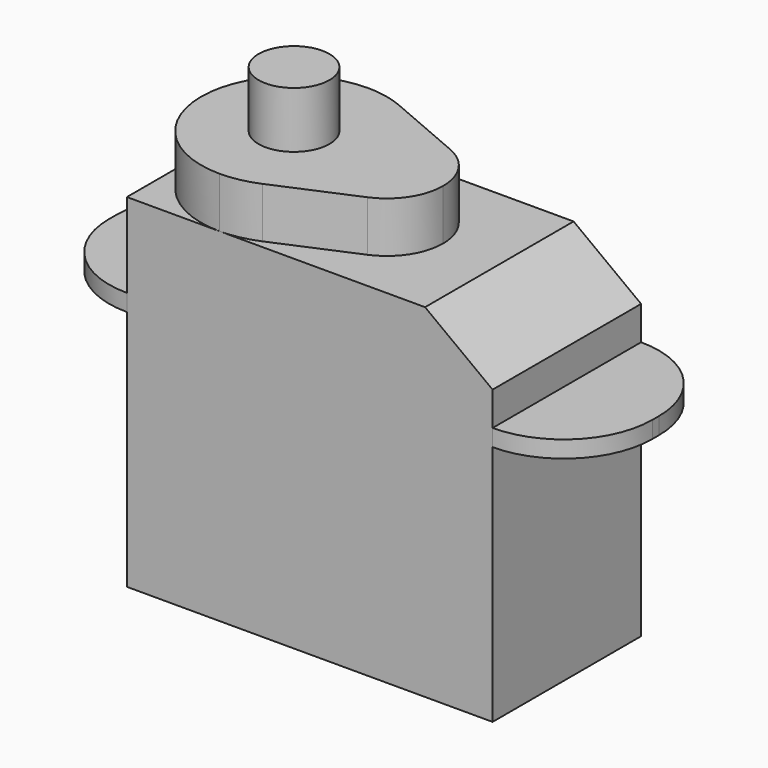
from build123d import *

# Parameters (mm, degrees)
F1_DEPTH = 8.25
F3_DEPTH = 0.75
F5_DEPTH = 2.25
F6_R     = 1.575
F7_DEPTH = 2.5


with BuildPart() as f1:
    # F0 (on Front) → F1 (new body)
    with BuildSketch(Plane.XZ):
        Polygon((0, 10.75), (0, 0), (16.25, 0), (16.25, 10.75), (20.2, 10.75), (20.2, 11.5), (16.25, 11.5), (16.25, 13), (13.25, 15.25), (10.75, 15.25), (10.75, 17.5), (0, 17.5), (0, 11.5), (-3.95, 11.5), (-3.95, 10.75), align=None)
    extrude(amount=F1_DEPTH)

    # F2 (on face) → F3 (cut, through all)
    with BuildSketch(Plane.XY.offset(11.5)):
        with BuildLine():
            ThreePointArc((0, -8.25), (-2.793072, -7.093072), (-3.95, -4.3))
            Line((-3.95, -4.3), (-3.95, -8.25))
            Line((-3.95, -8.25), (0, -8.25))
        make_face()
        with BuildLine():
            ThreePointArc((-3.95, -3.95), (-2.793072, -1.156928), (0, 0))
            Line((0, 0), (-3.95, 0))
            Line((-3.95, 0), (-3.95, -3.95))
        make_face()
        with BuildLine():
            Line((20.2, 0), (16.25, 0))
            ThreePointArc((16.25, 0), (19.043072, -1.156928), (20.2, -3.95))
            Line((20.2, -3.95), (20.2, 0))
        make_face()
        with BuildLine():
            Line((20.2, -8.25), (20.2, -4.3))
            ThreePointArc((20.2, -4.3), (19.043072, -7.093072), (16.25, -8.25))
            Line((16.25, -8.25), (20.2, -8.25))
        make_face()
    extrude(amount=-F3_DEPTH, mode=Mode.SUBTRACT)

    # F4 (on face) → F5 (cut, through all)
    with BuildSketch(Plane.XY.offset(17.5)):
        with BuildLine():
            ThreePointArc((4.125, -8.25), (1.208185, -7.041815), (0, -4.125))
            Line((0, -4.125), (0, -8.25))
            Line((0, -8.25), (4.125, -8.25))
        make_face()
        with BuildLine():
            ThreePointArc((0, -4.125), (1.208185, -1.208185), (4.125, 0))
            Line((4.125, 0), (0, 0))
            Line((0, 0), (0, -4.125))
        make_face()
        with BuildLine():
            ThreePointArc((4.125, 0), (4.954441, -0.084251), (5.75, -0.333562))
            Line((5.75, -0.333562), (9.234848, -1.827159))
            ThreePointArc((9.234848, -1.827159), (10.337118, -2.748795), (10.75, -4.125))
            Line((10.75, -4.125), (10.75, 0))
            Line((10.75, 0), (4.125, 0))
        make_face()
        with BuildLine():
            Line((10.75, -8.25), (10.75, -4.125))
            ThreePointArc((10.75, -4.125), (10.337118, -5.501205), (9.234848, -6.422841))
            Line((9.234848, -6.422841), (5.75, -7.916438))
            ThreePointArc((5.75, -7.916438), (4.954441, -8.165749), (4.125, -8.25))
            Line((4.125, -8.25), (10.75, -8.25))
        make_face()
    extrude(amount=-F5_DEPTH, mode=Mode.SUBTRACT)


with BuildPart() as f7:
    # F6 (on face) → F7 (new body)
    with BuildSketch(Plane.XY.offset(17.5)):
        with Locations((4.125, -4.125)):
            Circle(F6_R)
    extrude(amount=F7_DEPTH)


solid = Compound([f1.part, f7.part])
